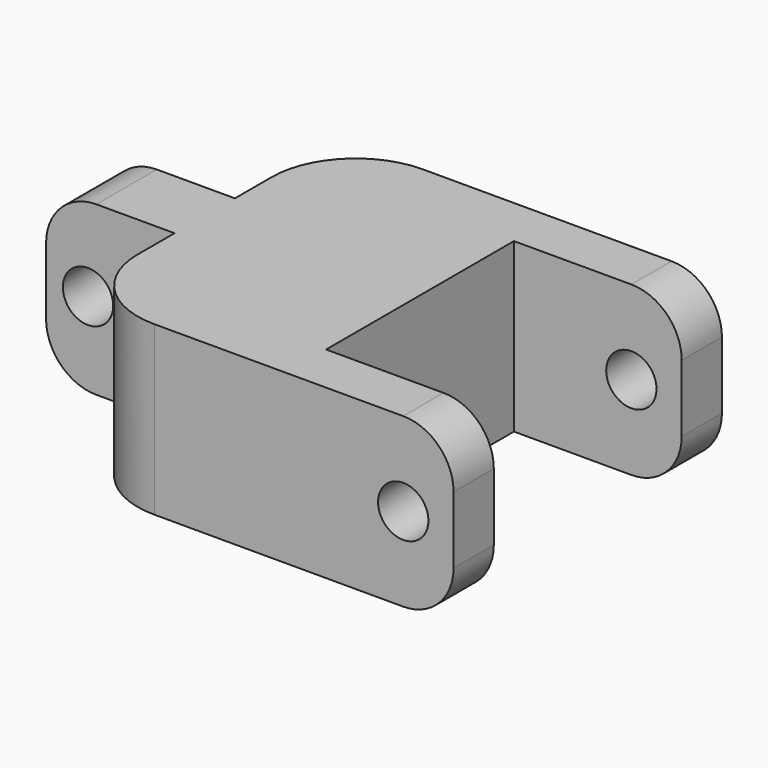
from build123d import *

# Parameters (mm, degrees)
F1_DEPTH = 10
F2_R     = 1.5
F3_DEPTH = 25
F4_R     = 3


with BuildPart() as f1:
    # F0 (on Top) → F1 (new body)
    with BuildSketch(Plane.XY):
        with BuildLine():
            Line((-26.545639, 48.637496), (-44.382463, 48.637496))
            ThreePointArc((-44.382463, 48.637496), (-47.917997, 47.17303), (-49.382463, 43.637496))
            Line((-49.382463, 43.637496), (-49.382463, 40.887496))
            Line((-49.382463, 40.887496), (-57.040692, 40.887496))
            Line((-57.040692, 40.887496), (-57.040692, 36.387496))
            Line((-57.040692, 36.387496), (-49.382463, 36.387496))
            Line((-49.382463, 36.387496), (-49.382463, 33.637496))
            ThreePointArc((-49.382463, 33.637496), (-47.917997, 30.101962), (-44.382463, 28.637496))
            Line((-44.382463, 28.637496), (-26.545639, 28.637496))
            Line((-26.545639, 28.637496), (-26.545639, 31.637496))
            Line((-26.545639, 31.637496), (-36.545639, 31.637496))
            Line((-36.545639, 31.637496), (-36.545639, 45.637496))
            Line((-36.545639, 45.637496), (-26.545639, 45.637496))
            Line((-26.545639, 45.637496), (-26.545639, 48.637496))
        make_face()
    extrude(amount=F1_DEPTH)

    # F2 (on face) → F3 (cut)
    with BuildSketch(Plane(origin=(0, 48.637496, 0), x_dir=(-1, 0, 0), z_dir=(0, 1, 0))):
        with Locations((54.540692, 5)):
            Circle(F2_R)
        with Locations((29.545639, 5)):
            Circle(F2_R)
    extrude(amount=-F3_DEPTH, mode=Mode.SUBTRACT)

    # F4
    f4_edges = [f1.edges().sort_by_distance(p)[0] for p in [
        (-57.040692, 38.637496, 10),
        (-57.040692, 38.637496, 0),
        (-26.545639, 47.137496, 10),
        (-26.545639, 30.137496, 10),
        (-26.545639, 47.137496, 0),
        (-26.545639, 30.137496, 0),
    ]]
    fillet(f4_edges, radius=F4_R)


solid = f1.part
